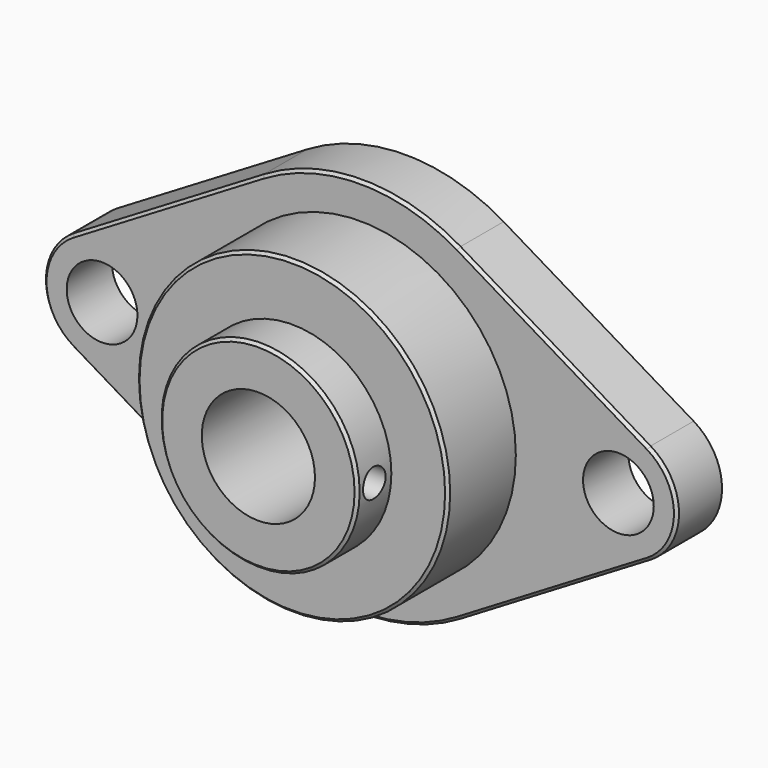
from build123d import *

# Parameters (mm, degrees)
F0_R     = 2.5
F0_R_2   = 11
F1_DEPTH = 4
F0_R_3   = 7
F0_R_4   = 4
F2_DEPTH = 13
F3_DEPTH = 10
F4_R     = 1
F5_DEPTH = 8
F6_SIZE  = 0.2
F7_SIZE  = 0.2
F8_SIZE  = 0.2


with BuildPart() as f1:
    # F0 (on Front) → F1 (new body)
    with BuildSketch(Plane.XZ):
        with BuildLine():
            Line((-20.369007, -3.539129), (-6.934932, -11.582604))
            ThreePointArc((-6.934932, -11.582604), (0, -13.5), (6.934932, -11.582604))
            Line((6.934932, -11.582604), (20.369007, -3.539129))
            ThreePointArc((20.369007, -3.539129), (22.375, 0), (20.369007, 3.539129))
            Line((20.369007, 3.539129), (6.934932, 11.582604))
            ThreePointArc((6.934932, 11.582604), (0, 13.5), (-6.934932, 11.582604))
            Line((-6.934932, 11.582604), (-20.369007, 3.539129))
            ThreePointArc((-20.369007, 3.539129), (-22.375, 0), (-20.369007, -3.539129))
        make_face()
        with Locations((-18.25, 0)):
            Circle(F0_R, mode=Mode.SUBTRACT)
        Circle(F0_R_2, mode=Mode.SUBTRACT)
        with Locations((18.25, 0)):
            Circle(F0_R, mode=Mode.SUBTRACT)
    extrude(amount=F1_DEPTH)



with BuildPart() as f2:
    # F0 (on Front) → F2 (new body)
    with BuildSketch(Plane.XZ):
        Circle(F0_R_3)
        Circle(F0_R_4, mode=Mode.SUBTRACT)
    extrude(amount=F2_DEPTH)


with BuildPart() as f1_1:
    add(f1.part)

    add(f2.part)  # F3 merges F2
    # F0 (on Front) → F3 (join)
    with BuildSketch(Plane.XZ):
        Circle(F0_R_2)
        Circle(F0_R_3, mode=Mode.SUBTRACT)
    extrude(amount=F3_DEPTH)

    # F4 (on Right) → F5 (cut)
    with BuildSketch(Plane.YZ):
        with Locations((-11.5, 0)):
            Circle(F4_R)
    extrude(amount=F5_DEPTH, mode=Mode.SUBTRACT)

    # F6
    f6_edges = [f1_1.edges().sort_by_distance(p)[0] for p in [
        (-11, -10, 0),
    ]]
    chamfer(f6_edges, length=F6_SIZE)

    # F7
    f7_edges = [f1_1.edges().sort_by_distance(p)[0] for p in [
        (-7, -13, 0),
    ]]
    chamfer(f7_edges, length=F7_SIZE)

    # F8
    f8_edges = [f1_1.edges().sort_by_distance(p)[0] for p in [
        (13.651969, -4, -7.560867),
        (13.651969, -4, 7.560867),
        (22.375, -4, 0),
        (0, -4, -13.5),
        (0, -4, 13.5),
        (-13.651969, -4, 7.560867),
        (-13.651969, -4, -7.560867),
        (-22.375, -4, 0),
    ]]
    chamfer(f8_edges, length=F8_SIZE)


solid = f1_1.part
